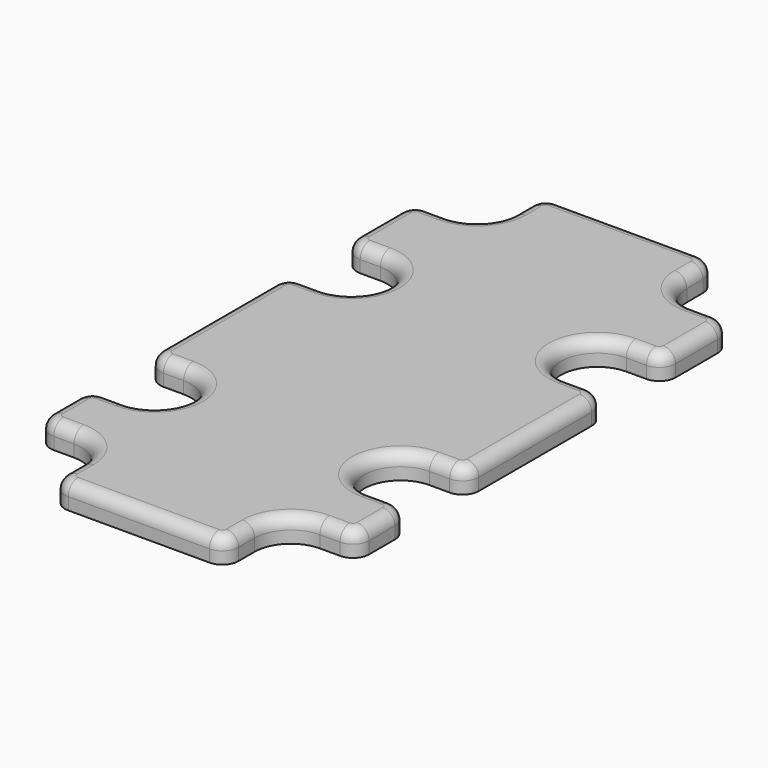
from build123d import *

# Parameters (mm, degrees)
F1_DEPTH = 3
F2_R     = 2
F3_R     = 1.5


with BuildPart() as f1:
    # F0 (on Top) → F1 (new body)
    with BuildSketch(Plane.XY):
        with BuildLine():
            Line((10.75, -36.75), (10.75, -32.25))
            ThreePointArc((10.75, -32.25), (12.068019, -29.068019), (15.25, -27.75))
            Line((15.25, -27.75), (19.75, -27.75))
            Line((19.75, -27.75), (19.75, -19.75))
            Line((19.75, -19.75), (15.25, -19.75))
            ThreePointArc((15.25, -19.75), (10.75, -15.25), (15.25, -10.75))
            Line((15.25, -10.75), (19.75, -10.75))
            Line((19.75, -10.75), (19.75, 10.75))
            Line((19.75, 10.75), (15.25, 10.75))
            ThreePointArc((15.25, 10.75), (10.75, 15.25), (15.25, 19.75))
            Line((15.25, 19.75), (19.75, 19.75))
            Line((19.75, 19.75), (19.75, 30.25))
            Line((19.75, 30.25), (15.25, 30.25))
            ThreePointArc((15.25, 30.25), (12.068019, 31.568019), (10.75, 34.75))
            Line((10.75, 34.75), (10.75, 39.25))
            Line((10.75, 39.25), (-10.75, 39.25))
            Line((-10.75, 39.25), (-10.75, 34.75))
            ThreePointArc((-10.75, 34.75), (-12.068019, 31.568019), (-15.25, 30.25))
            Line((-15.25, 30.25), (-19.75, 30.25))
            Line((-19.75, 30.25), (-19.75, 19.75))
            Line((-19.75, 19.75), (-15.25, 19.75))
            ThreePointArc((-15.25, 19.75), (-10.75, 15.25), (-15.25, 10.75))
            Line((-15.25, 10.75), (-19.75, 10.75))
            Line((-19.75, 10.75), (-19.75, -10.75))
            Line((-19.75, -10.75), (-15.25, -10.75))
            ThreePointArc((-15.25, -10.75), (-10.75, -15.25), (-15.25, -19.75))
            Line((-15.25, -19.75), (-19.75, -19.75))
            Line((-19.75, -19.75), (-19.75, -27.75))
            Line((-19.75, -27.75), (-15.25, -27.75))
            ThreePointArc((-15.25, -27.75), (-12.068019, -29.068019), (-10.75, -32.25))
            Line((-10.75, -32.25), (-10.75, -36.75))
            Line((-10.75, -36.75), (10.75, -36.75))
        make_face()
    extrude(amount=F1_DEPTH)

    # F2
    f2_edges = [f1.edges().sort_by_distance(p)[0] for p in [
        (19.75, -27.75, 1.5),
        (19.75, -19.75, 1.5),
        (19.75, -10.75, 1.5),
        (19.75, 10.75, 1.5),
        (19.75, 19.75, 1.5),
        (19.75, 30.25, 1.5),
        (10.75, 39.25, 1.5),
        (-10.75, 39.25, 1.5),
        (-19.75, 30.25, 1.5),
        (-19.75, 19.75, 1.5),
        (-19.75, 10.75, 1.5),
        (-19.75, -10.75, 1.5),
        (-19.75, -27.75, 1.5),
        (-19.75, -19.75, 1.5),
        (10.75, -36.75, 1.5),
        (-10.75, -36.75, 1.5),
    ]]
    fillet(f2_edges, radius=F2_R)

    # F3
    f3_edges = [f1.edges().sort_by_distance(p)[0] for p in [
        (-10.75, -33.5, 3),
        (-10.164214, -36.164214, 3),
        (-12.068019, -29.068019, 3),
        (0, -36.75, 3),
        (-16.5, -27.75, 3),
        (10.164214, -36.164214, 3),
        (-19.164214, -27.164214, 3),
        (10.75, -33.5, 3),
        (-19.75, -23.75, 3),
        (12.068019, -29.068019, 3),
        (-19.164214, -20.335786, 3),
        (16.5, -27.75, 3),
        (-16.5, -19.75, 3),
        (19.164214, -27.164214, 3),
        (-10.75, -15.25, 3),
        (19.75, -23.75, 3),
        (-16.5, -10.75, 3),
        (19.164214, -20.335786, 3),
        (-19.164214, -10.164214, 3),
        (16.5, -19.75, 3),
        (-19.75, 0, 3),
        (10.75, -15.25, 3),
        (-19.164214, 10.164214, 3),
        (16.5, -10.75, 3),
        (-16.5, 10.75, 3),
        (19.164214, -10.164214, 3),
        (-10.75, 15.25, 3),
        (19.75, 0, 3),
        (-16.5, 19.75, 3),
        (19.164214, 10.164214, 3),
        (-19.164214, 20.335786, 3),
        (16.5, 10.75, 3),
        (-19.75, 25, 3),
        (10.75, 15.25, 3),
        (-19.164214, 29.664214, 3),
        (16.5, 19.75, 3),
        (-16.5, 30.25, 3),
        (19.164214, 20.335786, 3),
        (-12.068019, 31.568019, 3),
        (19.75, 25, 3),
        (-10.75, 36, 3),
        (19.164214, 29.664214, 3),
        (-10.164214, 38.664214, 3),
        (16.5, 30.25, 3),
        (0, 39.25, 3),
        (12.068019, 31.568019, 3),
        (10.164214, 38.664214, 3),
        (10.75, 36, 3),
    ]]
    fillet(f3_edges, radius=F3_R)


solid = f1.part
